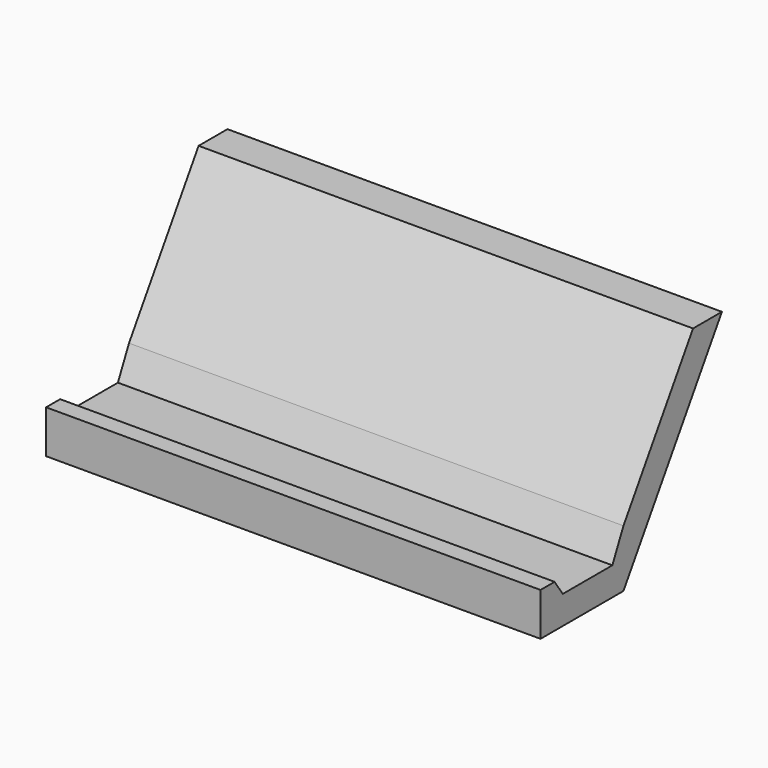
from build123d import *

# Parameters (mm, degrees)
F1_DEPTH      = 76.2
F1_DEPTH_BACK = 76.2
F3_DEPTH      = 12.7
F3_DEPTH_BACK = 12.7


with BuildPart() as f1:
    # F0 (on Right) → F1 (new body, two sides)
    with BuildSketch(Plane.YZ) as f1_sk:
        Polygon((26.81262, 42.643476), (0, 0), (-4.27861, -8.98508), (-23.389732, -8.98508), (-26.527381, -4.42123), (-31.946953, -4.42123), (-31.946953, -17.692504), (0, -17.692504), (37.937004, 42.643476), align=None)
    extrude(amount=F1_DEPTH)
    extrude(f1_sk.sketch, amount=-F1_DEPTH_BACK)

    # F2 (on Right) → F3 (join, two sides)
    with BuildSketch(Plane.YZ) as f3_sk:
        Polygon((50.487597, -18.683262), (24.530696, 23.532353), (16.543955, 13.54893), (36.510799, -18.683262), align=None)
    extrude(amount=F3_DEPTH)
    extrude(f3_sk.sketch, amount=-F3_DEPTH_BACK)


solid = f1.part
